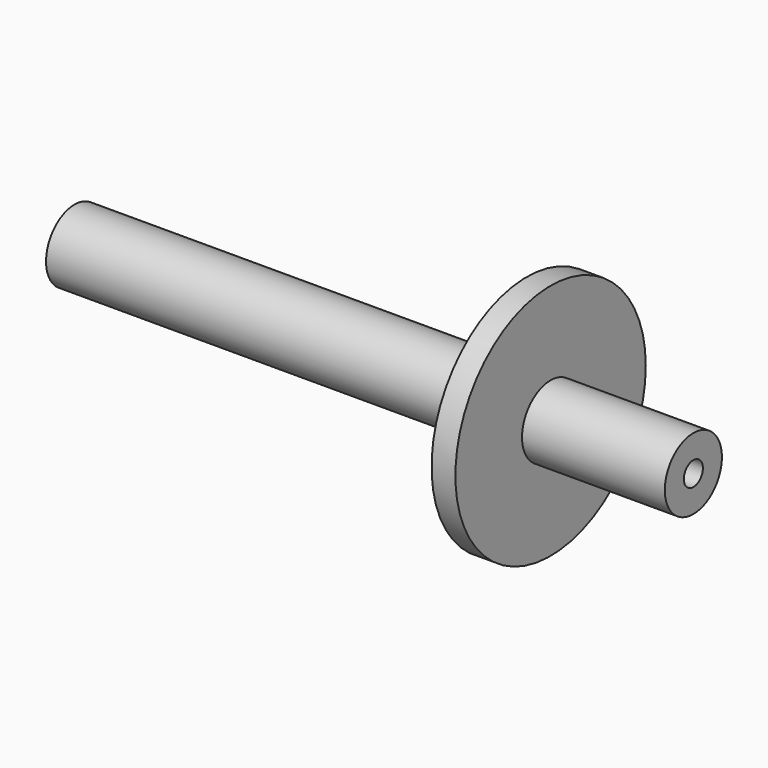
from build123d import *

# Parameters (mm, degrees)
F0_R          = 19.05
F0_R_2        = 6.35
F1_DEPTH      = 254
F1_DEPTH_BACK = 76.2
F0_R_3        = 63.5
F2_DEPTH      = 12.7


with BuildPart() as f1:
    # F0 (on Right) → F1 (new body, two sides)
    with BuildSketch(Plane.YZ) as f1_sk:
        Circle(F0_R)
        Circle(F0_R_2, mode=Mode.SUBTRACT)
    extrude(amount=-F1_DEPTH)
    extrude(f1_sk.sketch, amount=F1_DEPTH_BACK)

    # F0 (on Right) → F2 (join)
    with BuildSketch(Plane.YZ):
        Circle(F0_R_3)
        Circle(F0_R, mode=Mode.SUBTRACT)
    extrude(amount=-F2_DEPTH)


solid = f1.part
